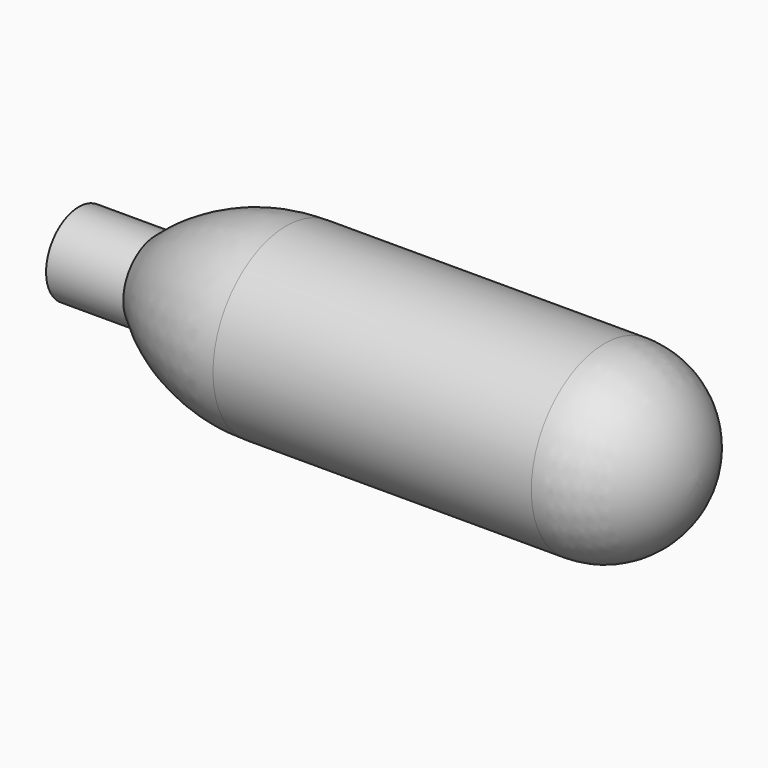
from build123d import *


with BuildPart() as f1:
    # F0 (on Front) → F1 (revolve)
    with BuildSketch(Plane.XZ):
        with BuildLine():
            Line((0, 4.2418), (0, 0))
            Line((0, 0), (64.008, 0))
            ThreePointArc((64.008, 0), (61.225632, 6.717232), (54.5084, 9.4996))
            Line((54.5084, 9.4996), (21.512487, 9.4996))
            ThreePointArc((21.512487, 9.4996), (14.263267, 8.138834), (8.001, 4.2418))
            Line((8.001, 4.2418), (0, 4.2418))
        make_face()
    revolve(axis=Axis((32.004, 0, 0), (-1, 0, 0)))


solid = f1.part
